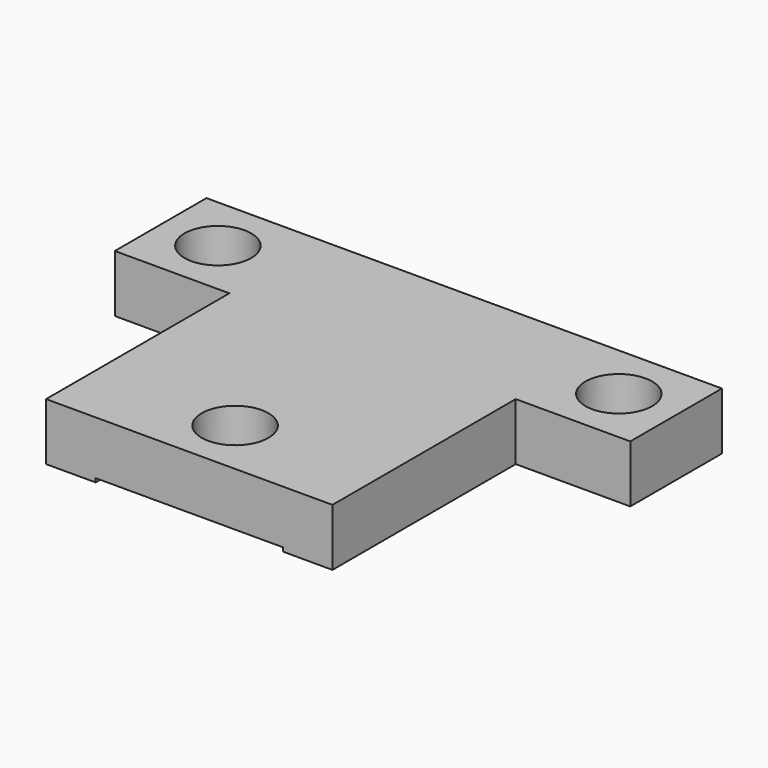
from build123d import *

# Parameters (mm, degrees)
F0_W     = 6
F0_H     = 6
F0_R     = 1.75
F2_DEPTH = 3
F1_W     = 9.8
F1_H     = 18
F3_DEPTH = 0.2


with BuildPart() as f2:
    # F0 (on Top) → F2 (new body)
    with BuildSketch(Plane.XY):
        with BuildLine():
            ThreePointArc((1.75, -6), (-1.237437, -4.762563), (0, -7.75))
            ThreePointArc((0, -7.75), (1.237437, -7.237437), (1.75, -6))
        make_face()
        Polygon((7.5, 9), (-7.5, 9), (-7.5, 3), (-7.5, -9), (0, -9), (7.5, -9), (7.5, 3), align=None)
        with BuildLine():
            ThreePointArc((1.75, -6), (1.237437, -7.237437), (0, -7.75))
            ThreePointArc((0, -7.75), (-1.237437, -4.762563), (1.75, -6))
        make_face(mode=Mode.SUBTRACT)
        with BuildLine():
            ThreePointArc((-8.75, 6), (-11.737437, 7.237437), (-10.5, 4.25))
            ThreePointArc((-10.5, 4.25), (-9.262563, 4.762563), (-8.75, 6))
        make_face()
        Polygon((-7.5, 3), (-7.5, 9), (-13.5, 9), (-13.5, 3), (-10.5, 3), align=None)
        with BuildLine():
            ThreePointArc((-8.75, 6), (-9.262563, 4.762563), (-10.5, 4.25))
            ThreePointArc((-10.5, 4.25), (-11.737437, 7.237437), (-8.75, 6))
        make_face(mode=Mode.SUBTRACT)
        with Locations((10.5, 6)):
            Rectangle(F0_W, F0_H)
        with Locations((10.5, 6)):
            Circle(F0_R, mode=Mode.SUBTRACT)
    extrude(amount=F2_DEPTH)

    # F1 (on face) → F3 (cut)
    with BuildSketch(Plane.XY):
        Rectangle(F1_W, F1_H)
    extrude(amount=F3_DEPTH, mode=Mode.SUBTRACT)


solid = f2.part
